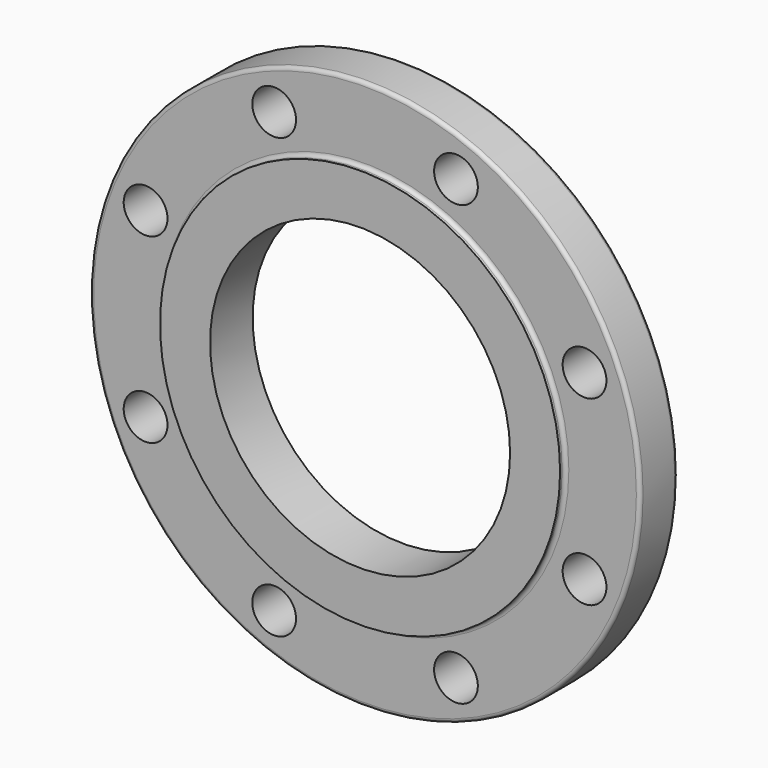
from build123d import *

# Parameters (mm, degrees)
F0_R     = 139.7
F0_R_2   = 11.1125
F0_R_3   = 76.2
F1_DEPTH = 23.876
F2_R     = 101.6
F2_R_2   = 76.2
F3_DEPTH = 3.175
F4_R     = 1.905


with BuildPart() as f1:
    # F0 (on Front) → F1 (new body)
    with BuildSketch(Plane.XZ):
        Circle(F0_R)
        with Locations((-46.170756, -111.466066)):
            Circle(F0_R_2, mode=Mode.SUBTRACT)
        with Locations((-111.466066, -46.170756)):
            Circle(F0_R_2, mode=Mode.SUBTRACT)
        with Locations((46.170756, -111.466066)):
            Circle(F0_R_2, mode=Mode.SUBTRACT)
        with Locations((111.466066, -46.170756)):
            Circle(F0_R_2, mode=Mode.SUBTRACT)
        with Locations((-111.466066, 46.170756)):
            Circle(F0_R_2, mode=Mode.SUBTRACT)
        with Locations((-46.170756, 111.466066)):
            Circle(F0_R_2, mode=Mode.SUBTRACT)
        Circle(F0_R_3, mode=Mode.SUBTRACT)
        with Locations((111.466066, 46.170756)):
            Circle(F0_R_2, mode=Mode.SUBTRACT)
        with Locations((46.170756, 111.466066)):
            Circle(F0_R_2, mode=Mode.SUBTRACT)
    extrude(amount=F1_DEPTH)

    # F2 (on face) → F3 (join)
    with BuildSketch(Plane.XZ.offset(23.876)):
        Circle(F2_R)
        Circle(F2_R_2, mode=Mode.SUBTRACT)
    extrude(amount=F3_DEPTH)

    # F4
    f4_edges = [f1.edges().sort_by_distance(p)[0] for p in [
        (-139.7, 0, 0),
        (-139.7, -23.876, 0),
        (-101.6, -23.876, 0),
    ]]
    fillet(f4_edges, radius=F4_R)


solid = f1.part
